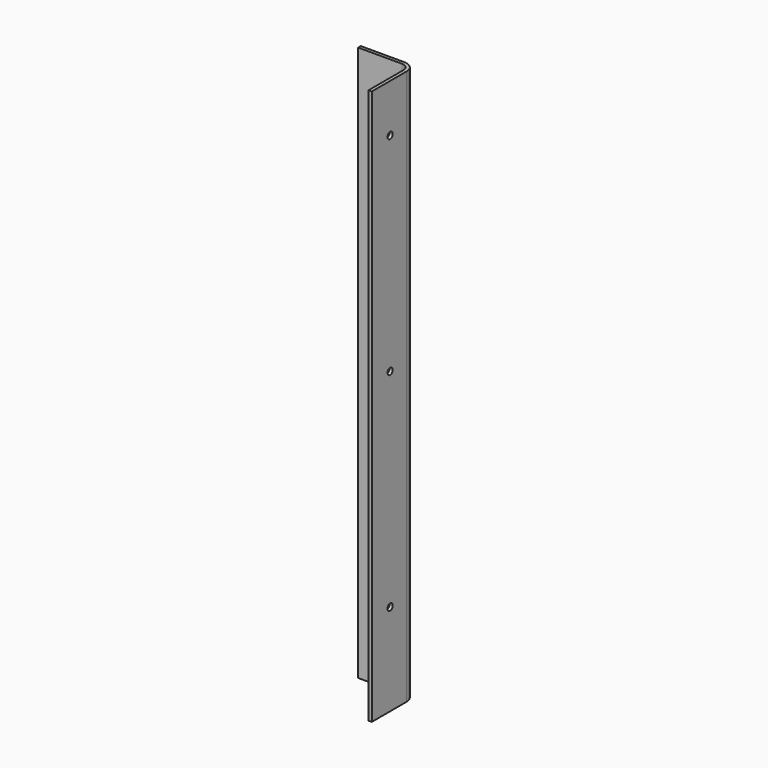
from build123d import *

# Parameters (mm, degrees)
F1_DEPTH = 508
F2_R     = 3
F3_DEPTH = 50.001
F4_R     = 3
F5_DEPTH = 50.001


with BuildPart() as f1:
    # F0 (on Top) → F1 (new body)
    with BuildSketch(Plane.XY):
        with BuildLine():
            Line((40, 0), (0, 0))
            Line((0, 0), (0, -3))
            Line((0, -3), (40, -3))
            ThreePointArc((40, -3), (44.949747, -5.050253), (47, -10))
            Line((47, -10), (47, -50))
            Line((47, -50), (50, -50))
            Line((50, -50), (50, -10))
            ThreePointArc((50, -10), (47.071068, -2.928932), (40, 0))
        make_face()
    extrude(amount=F1_DEPTH)

    # F2 (on face) → F3 (cut, through all)
    with BuildSketch(Plane(origin=(0, 0, 0), x_dir=(-1, 0, 0), z_dir=(0, 1, 0))):
        with Locations((-21, 464)):
            Circle(F2_R)
        with Locations((-21, 274)):
            Circle(F2_R)
        with Locations((-21, 84)):
            Circle(F2_R)
    extrude(amount=-F3_DEPTH, mode=Mode.SUBTRACT)

    # F4 (on face) → F5 (cut, through all)
    with BuildSketch(Plane.YZ.offset(50)):
        with Locations((-29, 464)):
            Circle(F4_R)
        with Locations((-29, 274)):
            Circle(F4_R)
        with Locations((-29, 84)):
            Circle(F4_R)
    extrude(amount=-F5_DEPTH, mode=Mode.SUBTRACT)


solid = f1.part
